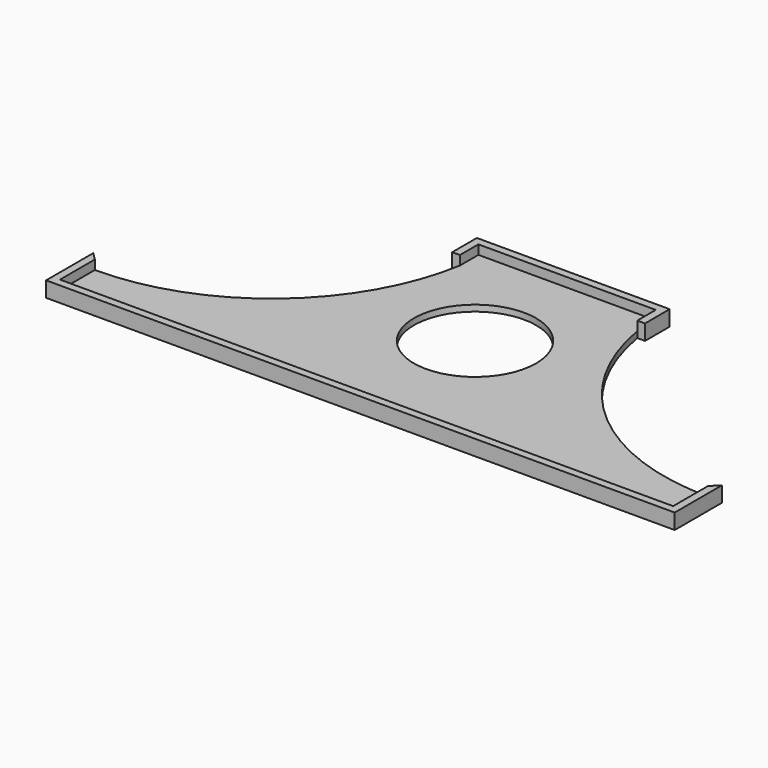
from build123d import *

# Parameters (mm, degrees)
F0_R     = 15.85
F0_W     = 46
F0_H     = 6
F1_DEPTH = 1.6
F0_H_2   = 2
F2_DEPTH = 4


with BuildPart() as f1:
    # F0 (on Top) → F1 (new body)
    with BuildSketch(Plane.XY):
        with BuildLine():
            ThreePointArc((-23, 53.35), (-42.528592, 19.169611), (-79.5, 5.65))
            Line((-79.5, 5.65), (0, 5.65))
            Line((0, 5.65), (79.5, 5.65))
            ThreePointArc((79.5, 5.65), (42.528592, 19.169611), (23, 53.35))
            Line((23, 53.35), (-23, 53.35))
        make_face()
        with Locations((0, 29.5)):
            Circle(F0_R, mode=Mode.SUBTRACT)
        Polygon((0, 5.65), (-79.5, 5.65), (-79.5, -5.65), (79.5, -5.65), (79.5, 5.65), align=None)
        with Locations((0, 56.35)):
            Rectangle(F0_W, F0_H)
    extrude(amount=F1_DEPTH)

    # F0 (on Top) → F2 (join)
    with BuildSketch(Plane.XY):
        Polygon((-79.5, -5.65), (-79.5, 5.65), (-81.5, 7.656808), (-81.5, -7.65), (81.5, -7.65), (81.5, 7.656808), (79.5, 5.65), (79.5, -5.65), align=None)
        with Locations((0, 60.35)):
            Rectangle(F0_W, F0_H_2)
        Polygon((23, 59.35), (23, 53.35), (25, 53.35), (25, 59.35), (25, 61.35), (23, 61.35), align=None)
        Polygon((-25, 53.35), (-23, 53.35), (-23, 59.35), (-23, 61.35), (-25, 61.35), (-25, 59.35), align=None)
    extrude(amount=F2_DEPTH)


solid = f1.part
